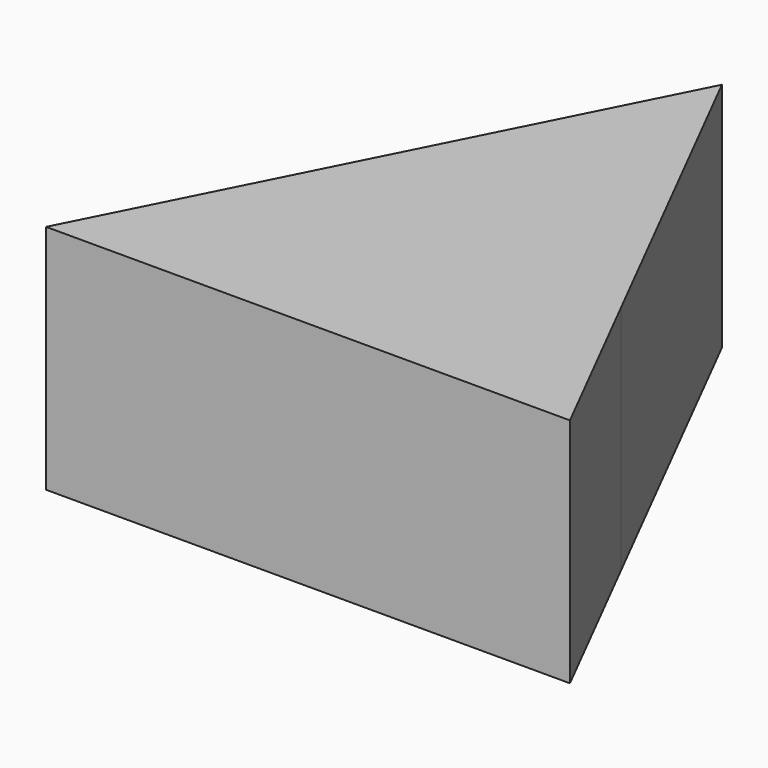
from build123d import *

# Parameters (mm, degrees)
F1_DEPTH = 25.4


with BuildPart() as f1:
    # F0 (on Top) → F1 (new body)
    with BuildSketch(Plane.XY):
        with BuildLine():
            Line((19.1083402221, 19.0301792914), (0, 56.7747466266))
            Line((0, 56.7747466266), (-18.6123867168, 20.0098326919))
            ThreePointArc((-18.6123867168, 20.0098326919), (-9.7339185684, 24.2253853349), (0, 25.5851316548))
            ThreePointArc((0, 25.5851316548), (10.0780565858, 23.8348368227), (19.1083402221, 19.0301792914))
        make_face()
        with BuildLine():
            ThreePointArc((0, 0), (-13.5172235542, 6.0879759254), (-18.6123867168, 20.0098326919))
            Line((-18.6123867168, 20.0098326919), (-28.7424456328, 0))
            Line((-28.7424456328, 0), (0, 0))
        make_face()
        with BuildLine():
            ThreePointArc((0, 25.5851316548), (-9.7339185684, 24.2253853349), (-18.6123867168, 20.0098326919))
            ThreePointArc((-18.6123867168, 20.0098326919), (-13.5172235542, 6.0879759254), (0, 0))
            ThreePointArc((0, 0), (-9.1778023586, 12.7925658274), (0, 25.5851316548))
        make_face()
        with BuildLine():
            ThreePointArc((0, 0), (13.4633404908, 5.5898634848), (19.1083402221, 19.0301792914))
            ThreePointArc((19.1083402221, 19.0301792914), (10.0780565858, 23.8348368227), (0, 25.5851316548))
            ThreePointArc((0, 25.5851316548), (9.1809525544, 12.7925658274), (0, 0))
        make_face()
        with BuildLine():
            Line((28.7424456328, 0), (19.1083402221, 19.0301792914))
            ThreePointArc((19.1083402221, 19.0301792914), (13.4633404908, 5.5898634848), (0, 0))
            Line((0, 0), (28.7424456328, 0))
        make_face()
        with BuildLine():
            ThreePointArc((0, 0), (9.1809525544, 12.7925658274), (0, 25.5851316548))
            ThreePointArc((0, 25.5851316548), (-9.1778023586, 12.7925658274), (0, 0))
        make_face()
    extrude(amount=F1_DEPTH)


solid = f1.part
